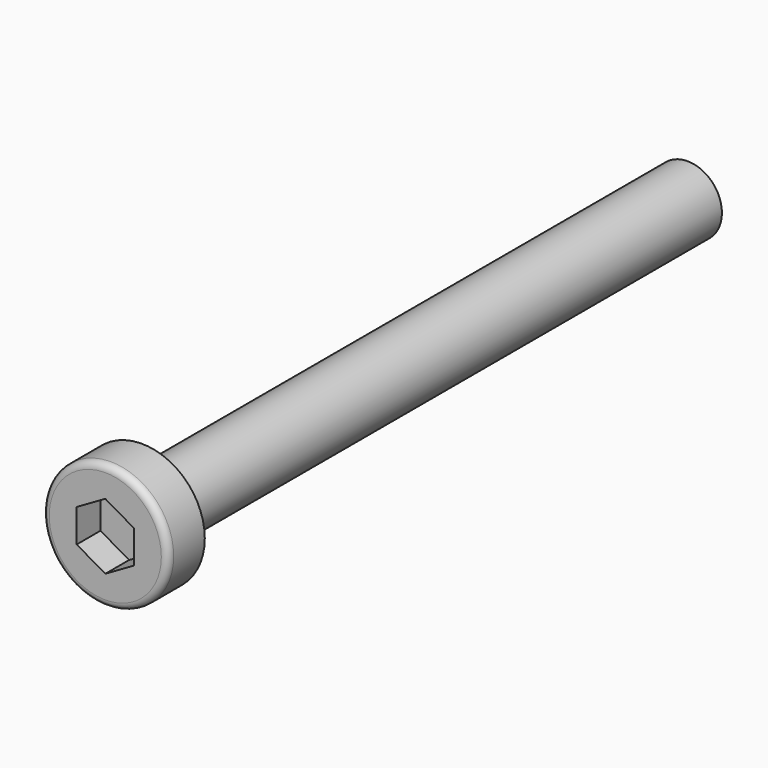
from build123d import *

# Parameters (mm, degrees)
POCKET_DEPTH = 1.3


with BuildPart() as part:
    # Sketch → Revolution (revolve)
    with BuildSketch(Plane.XY):
        with BuildLine():
            Line((1.5, 0), (2.75, 0))
            Line((2.75, 0), (2.75, -1.7))
            ThreePointArc((2.45, -2), (2.662132, -1.912132), (2.75, -1.7))
            Line((2.45, -2), (0, -2))
            Line((0, -2), (0, 30))
            Line((0, 30), (1.195, 30))
            Line((1.195, 30), (1.5, 29.823908))
            Line((1.5, 29.823908), (1.5, 0))
        make_face()
    revolve(axis=Axis((0, 0, 0), (0, 1, 0)))

    # Sketch001 → Pocket (cut)
    with BuildSketch(Plane.XZ.offset(2)):
        Polygon((-1.25, 0.721688), (-1.25, -0.721688), (0, -1.443376), (1.25, -0.721688), (1.25, 0.721688), (0, 1.443376), align=None)
    extrude(amount=-POCKET_DEPTH, mode=Mode.SUBTRACT)


solid = part.part
